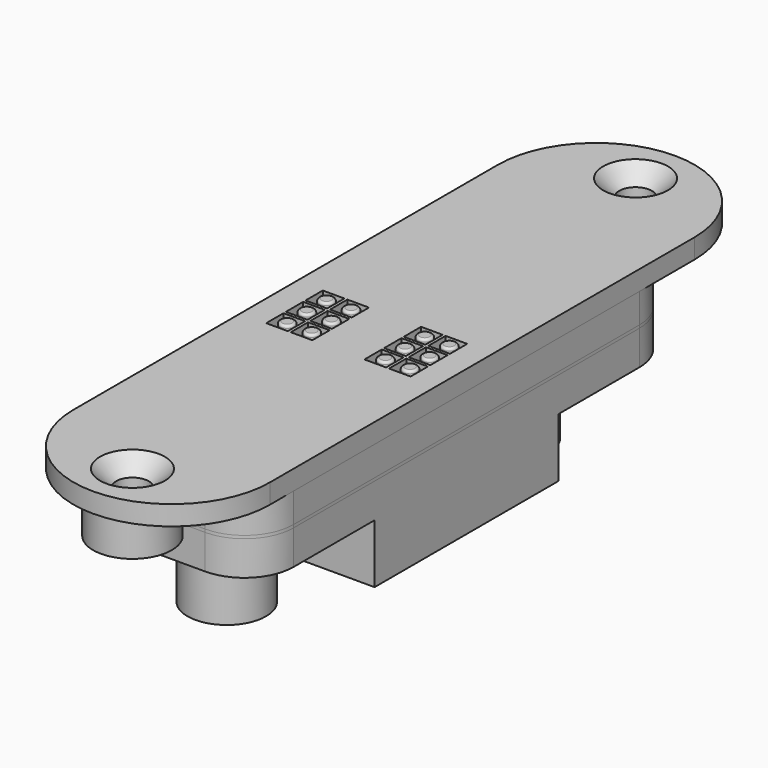
from build123d import *

# Parameters (mm, degrees)
SKETCH009_W               = 20
SKETCH009_H               = 27
SKETCH009_R               = 2.3
SKETCH009_R_2             = 1.1
PAD009_DEPTH              = 3.5
SKETCH010_W               = 20
SKETCH010_H               = 11.7
SKETCH010_W_2             = 5.1
SKETCH010_H_2             = 5.1
PAD010_DEPTH              = 6
SKETCH011_R               = 4
SKETCH011_R_2             = 2
PAD011_DEPTH              = 8
PAD012_DEPTH              = 3
FUSION001_PLACEMENT_ANGLE = 180
SKETCH_W                  = 20
SKETCH_H                  = 27
SKETCH_R                  = 2.3
SKETCH_R_2                = 1.1
PAD_DEPTH                 = 3.5
SKETCH001_W               = 20
SKETCH001_H               = 11.7
SKETCH001_W_2             = 5.1
SKETCH001_H_2             = 5.1
PAD001_DEPTH              = 6
SKETCH002_R               = 4
SKETCH002_R_2             = 2
PAD002_DEPTH              = 8
PAD003_DEPTH              = 3
FUSION002_PLACEMENT_ANGLE = 180
FILLET_R                  = 5
SKETCH014_W               = 20
SKETCH014_H               = 54
SKETCH014_R               = 1.1
PAD014_DEPTH              = 0.3
FILLET003_R               = 5
SKETCH013_W               = 1
SKETCH013_H               = 0.4
PAD013_DEPTH              = 1.3
FILLET001_R               = 0.3
FILLET002_R               = 0.2
FUSION003_PLACEMENT_ANGLE = 180
CYLINDER_R                = 0.7
CYLINDER_DEPTH            = 16
CYLINDER_PITCH_ANGLE      = 90
CYLINDER001_R             = 0.7
CYLINDER001_DEPTH         = 16
CYLINDER001_PITCH_ANGLE   = 90
SKETCH015_W               = 20
SKETCH015_H               = 54
SKETCH015_R               = 1.1
PAD015_DEPTH              = 1
SKETCH017_W               = 20
SKETCH017_H               = 54
SKETCH017_R               = 1.1
SKETCH017_W_2             = 18
SKETCH017_H_2             = 42
PAD017_DEPTH              = 3
CHAMFER_SIZE              = 2
SKETCH016_R               = 0.75
PAD016_DEPTH              = 5
FILLET004_R               = 0.25
FILLET005_R               = 5
SKETCH018_R               = 1.65
SKETCH018_W               = 2.2
SKETCH018_H               = 2.2
PAD018_DEPTH              = 2
CHAMFER001_SIZE           = 1.65
SKETCH019_R               = 4
SKETCH019_R_2             = 1.65
PAD019_DEPTH              = 4
FUSION006_PLACEMENT_ANGLE = 180


with BuildPart() as pad009:
    # Sketch009 → Pad009 (new body)
    with BuildSketch(Plane.XY):
        with Locations((10, 13.5)):
            Rectangle(SKETCH009_W, SKETCH009_H)
        with Locations((5.875, 8.65)):
            Circle(SKETCH009_R, mode=Mode.SUBTRACT)
        with Locations((11.375, 8.65)):
            Circle(SKETCH009_R, mode=Mode.SUBTRACT)
        with Locations((16.875, 8.65)):
            Circle(SKETCH009_R, mode=Mode.SUBTRACT)
        with Locations((14.125, 3.05)):
            Circle(SKETCH009_R, mode=Mode.SUBTRACT)
        with Locations((8.625, 3.05)):
            Circle(SKETCH009_R, mode=Mode.SUBTRACT)
        with Locations((3.125, 3.05)):
            Circle(SKETCH009_R, mode=Mode.SUBTRACT)
        with Locations((5, 25)):
            Circle(SKETCH009_R_2, mode=Mode.SUBTRACT)
        with Locations((15, 25)):
            Circle(SKETCH009_R_2, mode=Mode.SUBTRACT)
    extrude(amount=PAD009_DEPTH)


with BuildPart() as pad010:
    # Sketch010 → Pad010 (new body)
    with BuildSketch(Plane.XY.offset(3.5)):
        with Locations((10, 5.85)):
            Rectangle(SKETCH010_W, SKETCH010_H)
        with Locations((5.875, 8.65)):
            Rectangle(SKETCH010_W_2, SKETCH010_H_2, mode=Mode.SUBTRACT)
        with Locations((11.375, 8.65)):
            Rectangle(SKETCH010_W_2, SKETCH010_H_2, mode=Mode.SUBTRACT)
        with Locations((16.875, 8.65)):
            Rectangle(SKETCH010_W_2, SKETCH010_H_2, mode=Mode.SUBTRACT)
        with Locations((3.125, 3.05)):
            Rectangle(SKETCH010_W_2, SKETCH010_H_2, mode=Mode.SUBTRACT)
        with Locations((8.625, 3.05)):
            Rectangle(SKETCH010_W_2, SKETCH010_H_2, mode=Mode.SUBTRACT)
        with Locations((14.125, 3.05)):
            Rectangle(SKETCH010_W_2, SKETCH010_H_2, mode=Mode.SUBTRACT)
    extrude(amount=PAD010_DEPTH)


with BuildPart() as pad011:
    # Sketch011 → Pad011 (new body)
    with BuildSketch(Plane.XY.offset(3.5)):
        with Locations((10, 18)):
            Circle(SKETCH011_R)
        with Locations((10, 18)):
            Circle(SKETCH011_R_2, mode=Mode.SUBTRACT)
    extrude(amount=PAD011_DEPTH)


with BuildPart() as fusion001:
    # Sketch012 → Pad012 (new body)
    with BuildSketch(Plane.XY):
        Polygon((3.14451, 10.296382), (4.812228, 8.962195), (5.229761, 9.506803), (3.848642, 11.027596), align=None)
        Polygon((8.80602, 10.523404), (10.348319, 9.131856), (10.816751, 9.610404), (9.51401, 11.285856), align=None)
        Polygon((14.379175, 10.541558), (16.031153, 8.980349), (16.575762, 9.434188), (15.141627, 11.176934), align=None)
        Polygon((3.671404, 2.070844), (4.913085, 0.518744), (5.689134, 1.228275), (4.18138, 2.602993), align=None)
        Polygon((8.904199, 2.181709), (10.38978, 0.496571), (11.121485, 1.250448), (9.547212, 2.669512), align=None)
        Polygon((14.558277, 2.181709), (15.66692, 0.518744), (16.553833, 1.33914), (15.090425, 2.602993), align=None)
    extrude(amount=PAD012_DEPTH)

    # Fusion001: union Pad009, Pad010, Pad011
    add(pad009.part)
    add(pad010.part)
    add(pad011.part)


with BuildPart() as fusion001_1:
    # Fusion001 placement: moved
    add(fusion001.part.moved(Location((20, 0, 0))).rotate(Axis((20, 0, 0), (0, 0, 1)), FUSION001_PLACEMENT_ANGLE))


with BuildPart() as pad:
    # Sketch → Pad (new body)
    with BuildSketch(Plane.XY):
        with Locations((10, 13.5)):
            Rectangle(SKETCH_W, SKETCH_H)
        with Locations((5.875, 8.65)):
            Circle(SKETCH_R, mode=Mode.SUBTRACT)
        with Locations((11.375, 8.65)):
            Circle(SKETCH_R, mode=Mode.SUBTRACT)
        with Locations((16.875, 8.65)):
            Circle(SKETCH_R, mode=Mode.SUBTRACT)
        with Locations((14.125, 3.05)):
            Circle(SKETCH_R, mode=Mode.SUBTRACT)
        with Locations((8.625, 3.05)):
            Circle(SKETCH_R, mode=Mode.SUBTRACT)
        with Locations((3.125, 3.05)):
            Circle(SKETCH_R, mode=Mode.SUBTRACT)
        with Locations((5, 25)):
            Circle(SKETCH_R_2, mode=Mode.SUBTRACT)
        with Locations((15, 25)):
            Circle(SKETCH_R_2, mode=Mode.SUBTRACT)
    extrude(amount=PAD_DEPTH)


with BuildPart() as pad001:
    # Sketch001 → Pad001 (new body)
    with BuildSketch(Plane.XY.offset(3.5)):
        with Locations((10, 5.85)):
            Rectangle(SKETCH001_W, SKETCH001_H)
        with Locations((5.875, 8.65)):
            Rectangle(SKETCH001_W_2, SKETCH001_H_2, mode=Mode.SUBTRACT)
        with Locations((11.375, 8.65)):
            Rectangle(SKETCH001_W_2, SKETCH001_H_2, mode=Mode.SUBTRACT)
        with Locations((16.875, 8.65)):
            Rectangle(SKETCH001_W_2, SKETCH001_H_2, mode=Mode.SUBTRACT)
        with Locations((3.125, 3.05)):
            Rectangle(SKETCH001_W_2, SKETCH001_H_2, mode=Mode.SUBTRACT)
        with Locations((8.625, 3.05)):
            Rectangle(SKETCH001_W_2, SKETCH001_H_2, mode=Mode.SUBTRACT)
        with Locations((14.125, 3.05)):
            Rectangle(SKETCH001_W_2, SKETCH001_H_2, mode=Mode.SUBTRACT)
    extrude(amount=PAD001_DEPTH)


with BuildPart() as pad002:
    # Sketch002 → Pad002 (new body)
    with BuildSketch(Plane.XY.offset(3.5)):
        with Locations((10, 18)):
            Circle(SKETCH002_R)
        with Locations((10, 18)):
            Circle(SKETCH002_R_2, mode=Mode.SUBTRACT)
    extrude(amount=PAD002_DEPTH)


with BuildPart() as fillet_body:
    # Sketch003 → Pad003 (new body)
    with BuildSketch(Plane.XY):
        Polygon((3.14451, 10.296382), (4.812228, 8.962195), (5.229761, 9.506803), (3.848642, 11.027596), align=None)
        Polygon((8.80602, 10.523404), (10.348319, 9.131856), (10.816751, 9.610404), (9.51401, 11.285856), align=None)
        Polygon((14.379175, 10.541558), (16.031153, 8.980349), (16.575762, 9.434188), (15.141627, 11.176934), align=None)
        Polygon((3.671404, 2.070844), (4.913085, 0.518744), (5.689134, 1.228275), (4.18138, 2.602993), align=None)
        Polygon((8.904199, 2.181709), (10.38978, 0.496571), (11.121485, 1.250448), (9.547212, 2.669512), align=None)
        Polygon((14.558277, 2.181709), (15.66692, 0.518744), (16.553833, 1.33914), (15.090425, 2.602993), align=None)
    extrude(amount=PAD003_DEPTH)

    # Fusion: union Pad, Pad001, Pad002
    add(pad.part)
    add(pad001.part)
    add(pad002.part)

    # Fusion002: union Fusion001
    add(fusion001_1.part)


with BuildPart() as fillet_body_1:
    # Fusion002 placement: moved
    add(fillet_body.part.rotate(Axis((0, 0, 0), (1, 0, 0)), FUSION002_PLACEMENT_ANGLE))

    # Fillet
    fillet_edges = [fillet_body_1.edges().sort_by_distance(p)[0] for p in [
        (0, 27, -1.75),
        (20, 27, -1.75),
        (20, -27, -1.75),
        (0, -27, -1.75),
    ]]
    fillet(fillet_edges, radius=FILLET_R)


with BuildPart() as fillet003:
    # Sketch014 → Pad014 (new body)
    with BuildSketch(Plane.XY):
        with Locations((10, 27)):
            Rectangle(SKETCH014_W, SKETCH014_H)
        with Locations((5, 52)):
            Circle(SKETCH014_R, mode=Mode.SUBTRACT)
        with Locations((15, 52)):
            Circle(SKETCH014_R, mode=Mode.SUBTRACT)
        with Locations((5, 2)):
            Circle(SKETCH014_R, mode=Mode.SUBTRACT)
        with Locations((15, 2)):
            Circle(SKETCH014_R, mode=Mode.SUBTRACT)
        Polygon((1, 48), (1, 6), (2.625, 6), (2.625, 20.45), (3.625, 20.45), (3.625, 6), (5.375, 6), (5.375, 22.25), (6.375, 22.25), (6.375, 6), (8.125, 6), (8.125, 20.45), (9.125, 20.45), (9.125, 6), (10.875, 6), (10.875, 22.25), (11.875, 22.25), (11.875, 6), (13.625, 6), (13.625, 20.45), (14.625, 20.45), (14.625, 6), (16.375, 6), (16.375, 22.25), (17.375, 22.25), (17.375, 6), (19, 6), (19, 48), (17.375, 48), (17.375, 33.55), (16.375, 33.55), (16.375, 48), (14.625, 48), (14.625, 31.75), (13.625, 31.75), (13.625, 48), (11.875, 48), (11.875, 33.55), (10.875, 33.55), (10.875, 48), (9.125, 48), (9.125, 31.75), (8.125, 31.75), (8.125, 48), (6.375, 48), (6.375, 33.55), (5.375, 33.55), (5.375, 48), (3.625, 48), (3.625, 31.75), (2.625, 31.75), (2.625, 48), align=None, mode=Mode.SUBTRACT)
    extrude(amount=PAD014_DEPTH)

    # Fillet003
    fillet003_edges = [fillet003.edges().sort_by_distance(p)[0] for p in [
        (0, 0, 0.15),
        (20, 0, 0.15),
        (20, 54, 0.15),
        (0, 54, 0.15),
    ]]
    fillet(fillet003_edges, radius=FILLET003_R)


with BuildPart() as fusion003:
    # Sketch013 → Pad013 (new body)
    with BuildSketch(Plane.XY.offset(0.3)):
        with Locations((3.125, 20.25)):
            Rectangle(SKETCH013_W, SKETCH013_H)
        with Locations((5.875, 22.05)):
            Rectangle(SKETCH013_W, SKETCH013_H)
        with Locations((8.625, 20.25)):
            Rectangle(SKETCH013_W, SKETCH013_H)
        with Locations((11.375, 22.05)):
            Rectangle(SKETCH013_W, SKETCH013_H)
        with Locations((14.125, 20.25)):
            Rectangle(SKETCH013_W, SKETCH013_H)
        with Locations((16.875, 22.05)):
            Rectangle(SKETCH013_W, SKETCH013_H)
        with Locations((3.125, 31.95)):
            Rectangle(SKETCH013_W, SKETCH013_H)
        with Locations((5.875, 33.75)):
            Rectangle(SKETCH013_W, SKETCH013_H)
        with Locations((8.625, 31.95)):
            Rectangle(SKETCH013_W, SKETCH013_H)
        with Locations((11.375, 33.75)):
            Rectangle(SKETCH013_W, SKETCH013_H)
        with Locations((14.125, 31.95)):
            Rectangle(SKETCH013_W, SKETCH013_H)
        with Locations((16.875, 33.75)):
            Rectangle(SKETCH013_W, SKETCH013_H)
    extrude(amount=PAD013_DEPTH)

    # Fillet001
    fillet001_edges = [fusion003.edges().sort_by_distance(p)[0] for p in [
        (3.625, 31.95, 1.6),
        (2.625, 31.95, 1.6),
        (5.375, 33.75, 1.6),
        (6.375, 33.75, 1.6),
        (8.125, 31.95, 1.6),
        (9.125, 31.95, 1.6),
        (10.875, 33.75, 1.6),
        (11.875, 33.75, 1.6),
        (13.625, 31.95, 1.6),
        (14.625, 31.95, 1.6),
        (16.375, 33.75, 1.6),
        (17.375, 33.75, 1.6),
        (17.375, 22.05, 1.6),
        (16.375, 22.05, 1.6),
        (14.625, 20.25, 1.6),
        (13.625, 20.25, 1.6),
        (11.875, 22.05, 1.6),
        (10.875, 22.05, 1.6),
        (9.125, 20.25, 1.6),
        (8.125, 20.25, 1.6),
        (6.375, 22.05, 1.6),
        (5.375, 22.05, 1.6),
        (3.625, 20.25, 1.6),
        (2.625, 20.25, 1.6),
    ]]
    fillet(fillet001_edges, radius=FILLET001_R)

    # Fillet002
    fillet002_edges = [fusion003.edges().sort_by_distance(p)[0] for p in [
        (3.125, 20.45, 1.6),
        (5.875, 21.85, 1.6),
        (8.625, 20.45, 1.6),
        (11.375, 21.85, 1.6),
        (14.125, 20.45, 1.6),
        (16.875, 21.85, 1.6),
        (16.875, 33.55, 1.6),
        (14.125, 32.15, 1.6),
        (11.375, 33.55, 1.6),
        (8.625, 32.15, 1.6),
        (5.875, 33.55, 1.6),
        (3.125, 32.15, 1.6),
    ]]
    fillet(fillet002_edges, radius=FILLET002_R)

    # Fusion003: union Fillet003
    add(fillet003.part)


with BuildPart() as fusion003_1:
    # Fusion003 placement: moved
    add(fusion003.part.moved(Location((0, 27, 0.3))).rotate(Axis((0, 27, 0.3), (1, 0, 0)), FUSION003_PLACEMENT_ANGLE))


with BuildPart() as zylinder:
    # Cylinder → Cylinder (new body)
    with BuildSketch(Plane.XY):
        Circle(CYLINDER_R)
    extrude(amount=CYLINDER_DEPTH)


with BuildPart() as zylinder_1:
    # Cylinder pitch: moved
    add(zylinder.part.rotate(Axis((0, 0, 0), (0, 1, 0)), CYLINDER_PITCH_ANGLE))


with BuildPart() as zylinder_2:
    # Cylinder placement: moved
    add(zylinder_1.part.moved(Location((2, 46, 1))))


with BuildPart() as fusion005:
    # Cylinder001 → Cylinder001 (new body)
    with BuildSketch(Plane.XY):
        Circle(CYLINDER001_R)
    extrude(amount=CYLINDER001_DEPTH)


with BuildPart() as fusion005_1:
    # Cylinder001 pitch: moved
    add(fusion005.part.rotate(Axis((0, 0, 0), (0, 1, 0)), CYLINDER001_PITCH_ANGLE))


with BuildPart() as fusion005_2:
    # Cylinder001 placement: moved
    add(fusion005_1.part.moved(Location((2, 8, 1))))

    # Fusion005: union Zylinder
    add(zylinder_2.part)


with BuildPart() as pad015:
    # Sketch015 → Pad015 (new body)
    with BuildSketch(Plane.XY):
        with Locations((10, 27)):
            Rectangle(SKETCH015_W, SKETCH015_H)
        with Locations((5, 2)):
            Circle(SKETCH015_R, mode=Mode.SUBTRACT)
        with Locations((15, 2)):
            Circle(SKETCH015_R, mode=Mode.SUBTRACT)
        with Locations((5, 52)):
            Circle(SKETCH015_R, mode=Mode.SUBTRACT)
        with Locations((15, 52)):
            Circle(SKETCH015_R, mode=Mode.SUBTRACT)
        Polygon((1, 48), (1, 6), (2.625, 6), (2.625, 21), (1.425, 22.2), (1.425, 27.5), (3.75, 27.5), (3.75, 26.5), (2.425, 26.5), (2.425, 22.2), (3.625, 21), (3.625, 6), (5.375, 6), (5.375, 21), (3.25, 23.125), (3.25, 24.5), (4.25, 24.5), (4.25, 23.125), (6.375, 21), (6.375, 6), (8.125, 6), (8.125, 21), (5.75, 23.375), (5.75, 24.5), (6.75, 24.5), (6.75, 23.375), (9.125, 21), (9.125, 6), (10.875, 6), (10.875, 21), (13.25, 23.375), (13.25, 24.5), (14.25, 24.5), (14.25, 23.375), (11.875, 21), (11.875, 6), (13.625, 6), (13.625, 21), (15.75, 23.125), (15.75, 24.5), (16.75, 24.5), (16.75, 23.125), (14.625, 21), (14.625, 6), (16.375, 6), (16.375, 21), (17.575, 22.2), (17.575, 26.5), (16.25, 26.5), (16.25, 27.5), (18.575, 27.5), (18.575, 22.2), (17.375, 21), (17.375, 6), (19, 6), (19, 48), (17.375, 48), (17.375, 31), (16.75, 29.5), (15.75, 29.5), (16.375, 31), (16.375, 48), (14.625, 48), (14.625, 31), (14.25, 29.5), (13.25, 29.5), (13.625, 31), (13.625, 48), (11.875, 48), (11.875, 27.5), (13.75, 27.5), (13.75, 26.5), (10.875, 26.5), (10.875, 48), (9.125, 48), (9.125, 26.5), (6.25, 26.5), (6.25, 27.5), (8.125, 27.5), (8.125, 48), (6.375, 48), (6.375, 31), (6.75, 29.5), (5.75, 29.5), (5.375, 31), (5.375, 48), (3.625, 48), (3.625, 31), (4.25, 29.5), (3.25, 29.5), (2.625, 31), (2.625, 48), align=None, mode=Mode.SUBTRACT)
    extrude(amount=PAD015_DEPTH)


with BuildPart() as chamfer_body:
    # Sketch017 → Pad017 (new body)
    with BuildSketch(Plane.XY):
        with Locations((10, 27)):
            Rectangle(SKETCH017_W, SKETCH017_H)
        with Locations((5, 2)):
            Circle(SKETCH017_R, mode=Mode.SUBTRACT)
        with Locations((15, 2)):
            Circle(SKETCH017_R, mode=Mode.SUBTRACT)
        with Locations((5, 52)):
            Circle(SKETCH017_R, mode=Mode.SUBTRACT)
        with Locations((15, 52)):
            Circle(SKETCH017_R, mode=Mode.SUBTRACT)
        with Locations((10, 27)):
            Rectangle(SKETCH017_W_2, SKETCH017_H_2, mode=Mode.SUBTRACT)
    extrude(amount=PAD017_DEPTH)

    # Chamfer
    chamfer_edges = [chamfer_body.edges().sort_by_distance(p)[0] for p in [
        (10, 48, 3),
        (10, 6, 3),
    ]]
    chamfer(chamfer_edges, length=CHAMFER_SIZE)


with BuildPart() as fillet005:
    # Sketch016 → Pad016 (new body)
    with BuildSketch(Plane.XY):
        with Locations((3.75, 29.5)):
            Circle(SKETCH016_R)
        with Locations((3.75, 27)):
            Circle(SKETCH016_R)
        with Locations((3.75, 24.5)):
            Circle(SKETCH016_R)
        with Locations((6.25, 29.5)):
            Circle(SKETCH016_R)
        with Locations((6.25, 27)):
            Circle(SKETCH016_R)
        with Locations((6.25, 24.5)):
            Circle(SKETCH016_R)
        with Locations((13.75, 29.5)):
            Circle(SKETCH016_R)
        with Locations((13.75, 27)):
            Circle(SKETCH016_R)
        with Locations((13.75, 24.5)):
            Circle(SKETCH016_R)
        with Locations((16.25, 24.5)):
            Circle(SKETCH016_R)
        with Locations((16.25, 27)):
            Circle(SKETCH016_R)
        with Locations((16.25, 29.5)):
            Circle(SKETCH016_R)
    extrude(amount=PAD016_DEPTH)

    # Fillet004
    fillet004_edges = [fillet005.edges().sort_by_distance(p)[0] for p in [
        (3, 24.5, 5),
        (3, 27, 5),
        (3, 29.5, 5),
        (5.5, 29.5, 5),
        (5.5, 27, 5),
        (5.5, 24.5, 5),
        (13, 24.5, 5),
        (15.5, 24.5, 5),
        (15.5, 27, 5),
        (13, 27, 5),
        (13, 29.5, 5),
        (15.5, 29.5, 5),
    ]]
    fillet(fillet004_edges, radius=FILLET004_R)

    # Fusion004: union Pad015, Chamfer body
    add(pad015.part)
    add(chamfer_body.part)

    # Cut: cut Fusion005
    add(fusion005_2.part, mode=Mode.SUBTRACT)


with BuildPart() as fillet005_1:
    # Cut placement: moved
    add(fillet005.part.moved(Location((0, -27, 0.3))))

    # Fillet005
    fillet005_edges = [fillet005_1.edges().sort_by_distance(p)[0] for p in [
        (20, -27, 2.3),
        (0, -27, 2.3),
        (20, 27, 2.3),
        (0, 27, 2.3),
    ]]
    fillet(fillet005_edges, radius=FILLET005_R)


with BuildPart() as chamfer001:
    # Sketch018 → Pad018 (new body)
    with BuildSketch(Plane.XY):
        with BuildLine():
            Line((0, 10), (0, 64))
            ThreePointArc((20, 64), (10, 74), (0, 64))
            Line((20, 64), (20, 10))
            ThreePointArc((0, 10), (10, 0), (20, 10))
        make_face()
        with Locations((10, 69)):
            Circle(SKETCH018_R, mode=Mode.SUBTRACT)
        with Locations((10, 5)):
            Circle(SKETCH018_R, mode=Mode.SUBTRACT)
        with Locations((3.75, 41.7)):
            Rectangle(SKETCH018_W, SKETCH018_H, mode=Mode.SUBTRACT)
        with Locations((3.75, 39.2)):
            Rectangle(SKETCH018_W, SKETCH018_H, mode=Mode.SUBTRACT)
        with Locations((3.75, 36.7)):
            Rectangle(SKETCH018_W, SKETCH018_H, mode=Mode.SUBTRACT)
        with Locations((6.25, 36.7)):
            Rectangle(SKETCH018_W, SKETCH018_H, mode=Mode.SUBTRACT)
        with Locations((6.25, 39.2)):
            Rectangle(SKETCH018_W, SKETCH018_H, mode=Mode.SUBTRACT)
        with Locations((6.25, 41.7)):
            Rectangle(SKETCH018_W, SKETCH018_H, mode=Mode.SUBTRACT)
        with Locations((13.75, 41.7)):
            Rectangle(SKETCH018_W, SKETCH018_H, mode=Mode.SUBTRACT)
        with Locations((13.75, 39.2)):
            Rectangle(SKETCH018_W, SKETCH018_H, mode=Mode.SUBTRACT)
        with Locations((13.75, 36.7)):
            Rectangle(SKETCH018_W, SKETCH018_H, mode=Mode.SUBTRACT)
        with Locations((16.25, 36.7)):
            Rectangle(SKETCH018_W, SKETCH018_H, mode=Mode.SUBTRACT)
        with Locations((16.25, 39.2)):
            Rectangle(SKETCH018_W, SKETCH018_H, mode=Mode.SUBTRACT)
        with Locations((16.25, 41.7)):
            Rectangle(SKETCH018_W, SKETCH018_H, mode=Mode.SUBTRACT)
    extrude(amount=PAD018_DEPTH)

    # Chamfer001
    chamfer001_edges = [chamfer001.edges().sort_by_distance(p)[0] for p in [
        (8.35, 69, 0),
        (8.35, 5, 0),
    ]]
    chamfer(chamfer001_edges, length=CHAMFER001_SIZE)


with BuildPart() as topplate:
    # Sketch019 → Pad019 (new body)
    with BuildSketch(Plane.XY.offset(2)):
        with Locations((10, 69)):
            Circle(SKETCH019_R)
        with Locations((10, 69)):
            Circle(SKETCH019_R_2, mode=Mode.SUBTRACT)
        with Locations((10, 5)):
            Circle(SKETCH019_R)
        with Locations((10, 5)):
            Circle(SKETCH019_R_2, mode=Mode.SUBTRACT)
    extrude(amount=PAD019_DEPTH)

    # Fusion006: union Chamfer001
    add(chamfer001.part)


with BuildPart() as topplate_1:
    # Fusion006 placement: moved
    add(topplate.part.moved(Location((0, 39, 5.3))).rotate(Axis((0, 39, 5.3), (1, 0, 0)), FUSION006_PLACEMENT_ANGLE))


solid = Compound([fillet_body_1.part, fusion003_1.part, fillet005_1.part, topplate_1.part])
